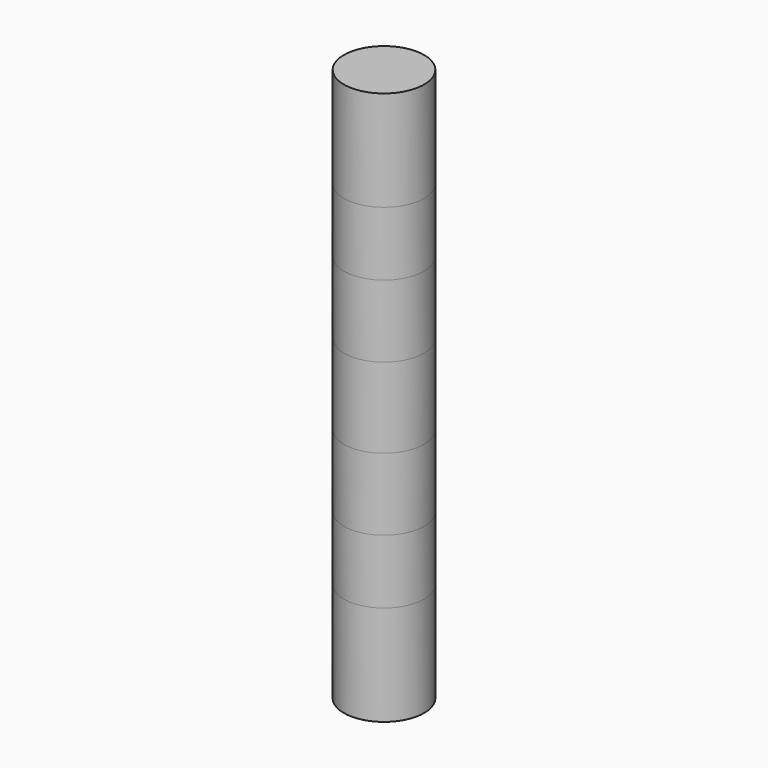
from build123d import *

# Parameters (mm, degrees)
PAD_DEPTH    = 10
PAD001_DEPTH = 9
PAD002_DEPTH = 9
PAD003_DEPTH = 8
PAD004_DEPTH = 8
PAD005_DEPTH = 12.5
PAD006_DEPTH = 12.5


with BuildPart() as part:
    # Sketch → Pad (new body)
    with BuildSketch(Plane.XY):
        with BuildLine():
            ThreePointArc((0, -5), (5, 0), (0, 5))
            ThreePointArc((0, 5), (-5, 0), (0, -5))
        make_face()
    extrude(amount=-PAD_DEPTH)

    # Pad Face3 → Pad001 (add)
    with BuildSketch(Plane(origin=(0, 0, 0), x_dir=(0, 1, 0), z_dir=(0, 0, 1))):
        with BuildLine():
            ThreePointArc((-5, 0), (0, -5), (5, 0))
            ThreePointArc((5, 0), (0, 5), (-5, 0))
        make_face()
    extrude(amount=PAD001_DEPTH)

    # Pad001 Face4 → Pad002 (add)
    with BuildSketch(Plane(origin=(0, 0, -10), x_dir=(0, -1, 0), z_dir=(0, 0, -1))):
        with BuildLine():
            ThreePointArc((-5, 0), (0, -5), (5, 0))
            ThreePointArc((5, 0), (0, 5), (-5, 0))
        make_face()
    extrude(amount=PAD002_DEPTH)

    # Pad002 Face7 → Pad003 (add)
    with BuildSketch(Plane(origin=(0, 0, 9), x_dir=(0, 1, 0), z_dir=(0, 0, 1))):
        with BuildLine():
            ThreePointArc((-5, 0), (0, -5), (5, 0))
            ThreePointArc((5, 0), (0, 5), (-5, 0))
        make_face()
    extrude(amount=PAD003_DEPTH)

    # Pad003 Face8 → Pad004 (add)
    with BuildSketch(Plane(origin=(0, 0, -19), x_dir=(0, -1, 0), z_dir=(0, 0, -1))):
        with BuildLine():
            ThreePointArc((-5, 0), (0, -5), (5, 0))
            ThreePointArc((5, 0), (0, 5), (-5, 0))
        make_face()
    extrude(amount=PAD004_DEPTH)

    # Pad004 Face11 → Pad005 (add)
    with BuildSketch(Plane(origin=(0, 0, 17), x_dir=(0, 1, 0), z_dir=(0, 0, 1))):
        with BuildLine():
            ThreePointArc((-5, 0), (0, -5), (5, 0))
            ThreePointArc((5, 0), (0, 5), (-5, 0))
        make_face()
    extrude(amount=PAD005_DEPTH)

    # Pad005 Face12 → Pad006 (add)
    with BuildSketch(Plane(origin=(0, 0, -27), x_dir=(0, -1, 0), z_dir=(0, 0, -1))):
        with BuildLine():
            ThreePointArc((-5, 0), (0, -5), (5, 0))
            ThreePointArc((5, 0), (0, 5), (-5, 0))
        make_face()
    extrude(amount=PAD006_DEPTH)


solid = part.part
